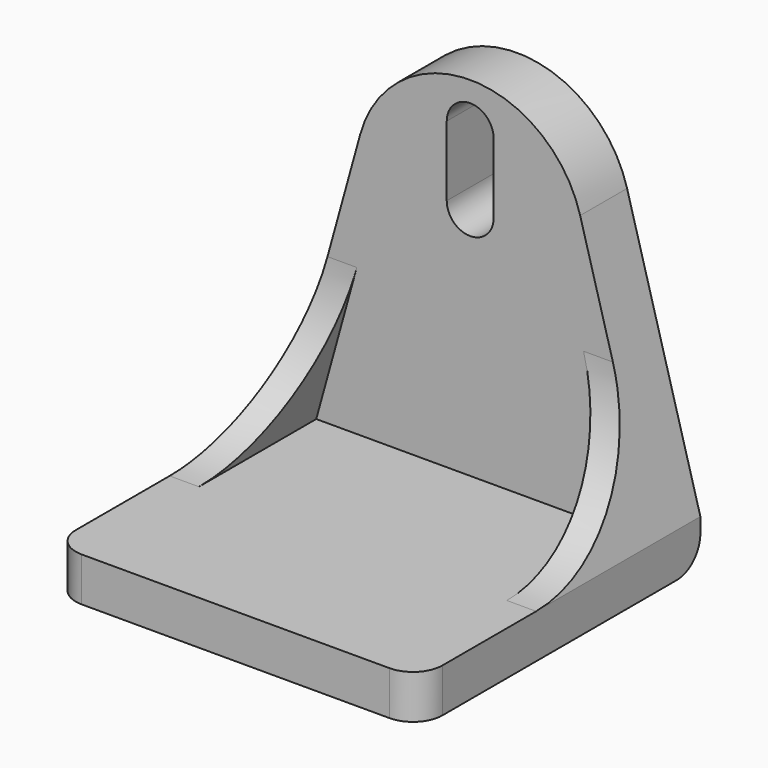
from build123d import *

# Parameters (mm, degrees)
SKETCH_W        = 25
SKETCH_H        = 24
PAD_DEPTH       = 3
PAD001_DEPTH    = 24
POCKET_DEPTH    = 20
POCKET001_DEPTH = 27
POCKET002_DEPTH = 4
FILLET_R        = 2
FILLET001_R     = 2


with BuildPart() as part:
    # Sketch → Pad (new body)
    with BuildSketch(Plane.XY):
        Rectangle(SKETCH_W, SKETCH_H)
    extrude(amount=PAD_DEPTH)

    # Sketch001 → Pad001 (new body)
    with BuildSketch(Plane(origin=(0, 12, 0), x_dir=(-1, 0, 0), z_dir=(0, 1, 0))):
        with BuildLine():
            Line((12.5, 3), (7.5, 21.074721))
            ThreePointArc((7.5, 21.074721), (0, 26.781675), (-7.5, 21.074721))
            Line((-7.5, 21.074721), (-12.5, 3))
            Line((12.5, 3), (-12.5, 3))
        make_face()
    extrude(amount=-PAD001_DEPTH)

    # Sketch002 → Pocket (cut)
    with BuildSketch(Plane.XZ.offset(12)):
        Polygon((10.5, 3), (-10.5, 3), (-7.733706, 13), (-15, 13), (-15, 26.781675), (15, 26.781675), (15, 13), (7.733706, 13), align=None)
    extrude(amount=-POCKET_DEPTH, mode=Mode.SUBTRACT)

    # Sketch003 → Pocket001 (cut)
    with BuildSketch(Plane.YZ.offset(12.5)):
        with BuildLine():
            ThreePointArc((-1.99997, 3), (8, 13), (-1.99997, 23))
            Line((-12, 23), (-1.99997, 23))
            Line((-12, 3), (-12, 23))
            Line((-1.99997, 3), (-12, 3))
        make_face()
    extrude(amount=-POCKET001_DEPTH, mode=Mode.SUBTRACT)

    # Sketch004 → Pocket002 (cut)
    with BuildSketch(Plane.XZ.offset(-8)):
        with BuildLine():
            ThreePointArc((1.6, 23.781675), (0, 25.381675), (-1.6, 23.781675))
            Line((-1.6, 23.781675), (-1.6, 19))
            ThreePointArc((-1.6, 19), (0, 17.4), (1.6, 19))
            Line((1.6, 23.781675), (1.6, 19))
        make_face()
    extrude(amount=-POCKET002_DEPTH, mode=Mode.SUBTRACT)

    # Fillet
    fillet_edges = [part.edges().sort_by_distance(p)[0] for p in [
        (12.5, -12, 1.5),
        (-12.5, -12, 1.5),
    ]]
    fillet(fillet_edges, radius=FILLET_R)

    # Fillet001
    fillet001_edges = [part.edges().sort_by_distance(p)[0] for p in [
        (0, 12, 0),
    ]]
    fillet(fillet001_edges, radius=FILLET001_R)


solid = part.part
